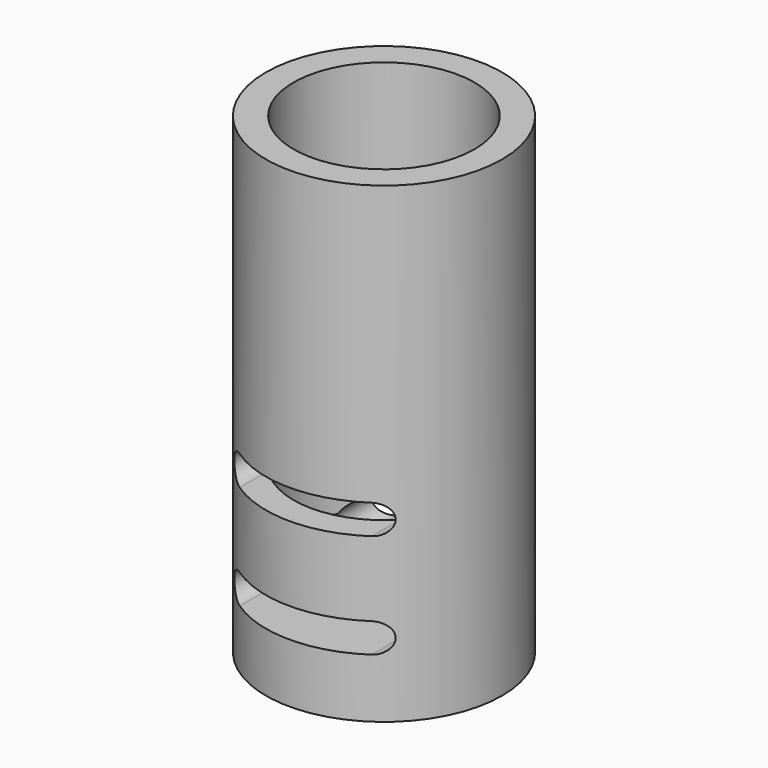
from build123d import *

# Parameters (mm, degrees)
F0_R      = 6
F1_DEPTH  = 4
F2_R      = 6
F2_R_2    = 4.6
F3_DEPTH  = 20
F6_DEPTH  = 25
F9_DEPTH  = 0.3
F11_DEPTH = 10


with BuildPart() as f1:
    # F0 (on Top) → F1 (new body)
    with BuildSketch(Plane.XY):
        Circle(F0_R)
    extrude(amount=F1_DEPTH)

    # F2 (on face) → F3 (join)
    with BuildSketch(Plane.XY.offset(4)):
        Circle(F2_R)
        Circle(F2_R_2, mode=Mode.SUBTRACT)
    extrude(amount=F3_DEPTH)

    # F5 (on offset) → F6 (cut)
    with BuildSketch(Plane.XZ.offset(10)):
        with BuildLine():
            ThreePointArc((-2.6, 3.75), (-2.8196699141, 4.2803300859), (-3.35, 4.5))
            Line((-3.35, 4.5), (-3.35, 3))
            ThreePointArc((-3.35, 3), (-2.8196699141, 3.2196699141), (-2.6, 3.75))
        make_face()
        with BuildLine():
            Line((3.35, 4.5), (-3.35, 4.5))
            ThreePointArc((-3.35, 4.5), (-2.8196699141, 4.2803300859), (-2.6, 3.75))
            ThreePointArc((-2.6, 3.75), (-2.8196699141, 3.2196699141), (-3.35, 3))
            Line((-3.35, 3), (3.35, 3))
            ThreePointArc((3.35, 3), (2.6, 3.75), (3.35, 4.5))
        make_face()
        with BuildLine():
            Line((-3.35, 3), (-3.35, 4.5))
            ThreePointArc((-3.35, 4.5), (-4.1, 3.75), (-3.35, 3))
        make_face()
        with BuildLine():
            ThreePointArc((4.1, 3.75), (3.8803300859, 4.2803300859), (3.35, 4.5))
            Line((3.35, 4.5), (3.35, 3))
            ThreePointArc((3.35, 3), (3.8803300859, 3.2196699141), (4.1, 3.75))
        make_face()
        with BuildLine():
            Line((3.35, 3), (3.35, 4.5))
            ThreePointArc((3.35, 4.5), (2.6, 3.75), (3.35, 3))
        make_face()
    extrude(amount=-F6_DEPTH, mode=Mode.SUBTRACT)

    # F8 (on offset) → F9 (join)
    with BuildSketch(Plane(origin=(0, 0, 10), x_dir=(1, 0, 0), z_dir=(0, 0, -1))):
        with BuildLine():
            ThreePointArc((-3.7672105065, -2.175), (-4.35, 0), (-3.7672105065, 2.175))
            Line((-3.7672105065, 2.175), (-3.9837168574, 2.3))
            ThreePointArc((-3.9837168574, 2.3), (-4.6, 0), (-3.9837168574, -2.3))
            Line((-3.9837168574, -2.3), (-3.7672105065, -2.175))
        make_face()
        with BuildLine():
            Line((3.7672105065, -2.175), (3.9837168574, -2.3))
            ThreePointArc((3.9837168574, -2.3), (4.6, 0), (3.9837168574, 2.3))
            Line((3.9837168574, 2.3), (3.7672105065, 2.175))
            ThreePointArc((3.7672105065, 2.175), (4.35, 0), (3.7672105065, -2.175))
        make_face()
    extrude(amount=-F9_DEPTH)

    # F10 (on offset) → F11 (cut)
    with BuildSketch(Plane.XZ.offset(10)):
        with BuildLine():
            ThreePointArc((-2.6, 9.05), (-2.8196699141, 9.5803300859), (-3.35, 9.8))
            Line((-3.35, 9.8), (-3.35, 8.3))
            ThreePointArc((-3.35, 8.3), (-2.8196699141, 8.5196699141), (-2.6, 9.05))
        make_face()
        with BuildLine():
            Line((3.35, 9.8), (-3.35, 9.8))
            ThreePointArc((-3.35, 9.8), (-2.8196699141, 9.5803300859), (-2.6, 9.05))
            ThreePointArc((-2.6, 9.05), (-2.8196699141, 8.5196699141), (-3.35, 8.3))
            Line((-3.35, 8.3), (3.35, 8.3))
            ThreePointArc((3.35, 8.3), (2.6, 9.05), (3.35, 9.8))
        make_face()
        with BuildLine():
            Line((-3.35, 8.3), (-3.35, 9.8))
            ThreePointArc((-3.35, 9.8), (-4.1, 9.05), (-3.35, 8.3))
        make_face()
        with BuildLine():
            ThreePointArc((4.1, 9.05), (3.8803300859, 9.5803300859), (3.35, 9.8))
            Line((3.35, 9.8), (3.35, 8.3))
            ThreePointArc((3.35, 8.3), (3.8803300859, 8.5196699141), (4.1, 9.05))
        make_face()
        with BuildLine():
            Line((3.35, 8.3), (3.35, 9.8))
            ThreePointArc((3.35, 9.8), (2.6, 9.05), (3.35, 8.3))
        make_face()
    extrude(amount=-F11_DEPTH, mode=Mode.SUBTRACT)


solid = f1.part
